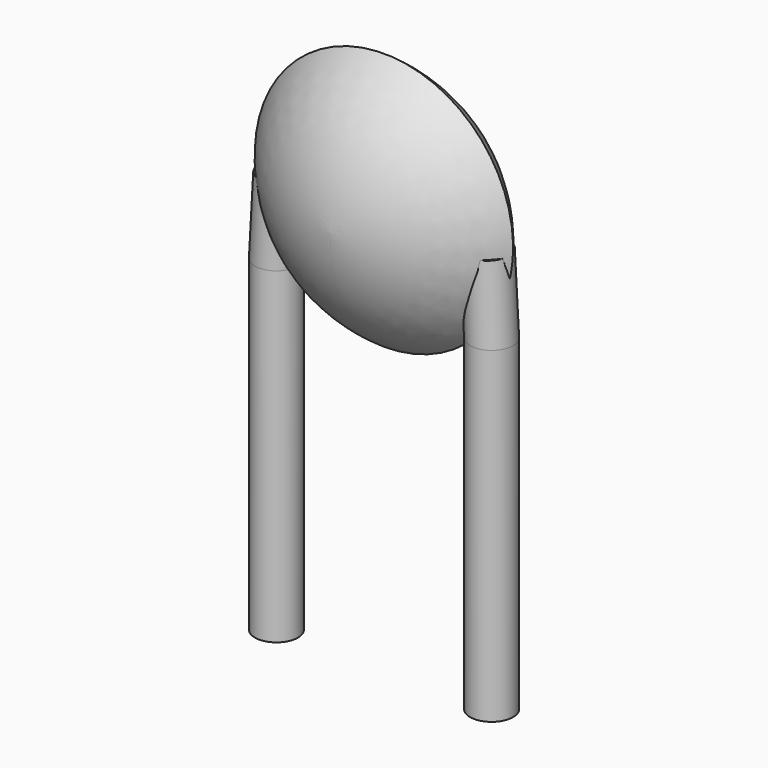
from build123d import *

# Parameters (mm, degrees)
SKETCH001_R       = 0.25
PAD001_DEPTH      = 0.6
PAD001_DEPTH_BACK = 3.2
SKETCH002_R       = 0.25
SKETCH003_R       = 0.25
SKETCH004_R       = 0.25
SKETCH005_R       = 0.25


with BuildPart() as pad001:
    # Sketch001 → Pad001 (new body, two sides)
    with BuildSketch(Plane.XY) as pad001_sk:
        Circle(SKETCH001_R)
        with Locations((2.5, 0)):
            Circle(SKETCH001_R)
    extrude(amount=PAD001_DEPTH)
    extrude(pad001_sk.sketch, amount=-PAD001_DEPTH_BACK)


with BuildPart() as revolution:
    # Sketch → Revolution (revolve)
    with BuildSketch(Plane.YZ.offset(1.25)):
        with BuildLine():
            Line((-0.8, 1.6), (0.8, 1.6))
            ThreePointArc((0, 0.1), (0.575092, 0.756617), (0.8, 1.6))
            ThreePointArc((-0.8, 1.6), (-0.575092, 0.756617), (0, 0.1))
        make_face()
    revolve(axis=Axis((1.25, -3.32079, 1.6), (0, 1, 0)))


with BuildPart() as loft_body:
    # Sketch002 → Loft section 0
    with BuildSketch(Plane.XY.offset(1.5)):
        with Locations((0.05, 0)):
            Circle(SKETCH002_R)
    # Sketch003 → Loft section 1
    with BuildSketch(Plane.XY.offset(0.6)):
        Circle(SKETCH003_R)
    loft()


with BuildPart() as loft001:
    # Sketch004 → Loft001 section 0
    with BuildSketch(Plane.XY.offset(0.6)):
        with Locations((2.5, 0)):
            Circle(SKETCH004_R)
    # Sketch005 → Loft001 section 1
    with BuildSketch(Plane.XY.offset(1.5)):
        with Locations((2.45, 0)):
            Circle(SKETCH005_R)
    loft()


solid = Compound([pad001.part, revolution.part, loft_body.part, loft001.part])
